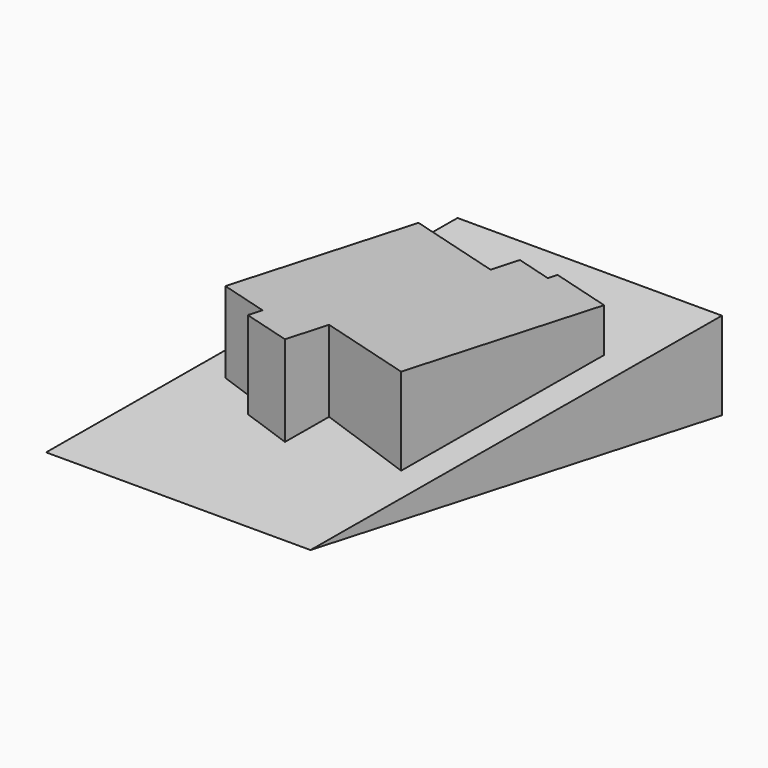
from build123d import *

# Parameters (mm, degrees)
F1_DEPTH = 1511.3
F3_DEPTH = 711.201
F5_DEPTH = 914.4


with BuildPart() as f1:
    # F0 (on Right) → F1 (new body, symmetric)
    with BuildSketch(Plane.YZ):
        Polygon((1534.126357, 355.6), (0, 0), (-1534.126357, -355.6), (1534.126357, -355.6), align=None)
    extrude(amount=F1_DEPTH, both=True)

    # F2 (on face) → F3 (cut, through all)
    with BuildSketch(Plane(origin=(0, 0, -355.6), x_dir=(1, 0, 0), z_dir=(0, 0, -1))):
        Polygon((631.492692, 1534.126357), (1511.3, -1534.126357), (1511.3, 1534.126357), align=None)
        Polygon((-631.492692, -1534.126357), (-1511.3, 1534.126357), (-1511.3, -1534.126357), align=None)
    extrude(amount=-F3_DEPTH, mode=Mode.SUBTRACT)

    # F4 (on face) → F5 (join)
    with BuildSketch(Plane(origin=(0, 0, -355.6), x_dir=(1, 0, 0), z_dir=(0, 0, -1))):
        Polygon((-951.953105, 417.12799), (-538.882964, -1023.418788), (218.014496, -806.381934), (281.025195, -1026.126357), (574.01776, -942.112091), (595.021327, -1015.360232), (1083.342268, -875.336456), (649.26856, 638.458463), (-107.628899, 421.421609), (-202.144948, 751.038245), (-592.801702, 639.019223), (-561.296352, 529.147011), align=None)
    extrude(amount=-F5_DEPTH)


solid = f1.part
